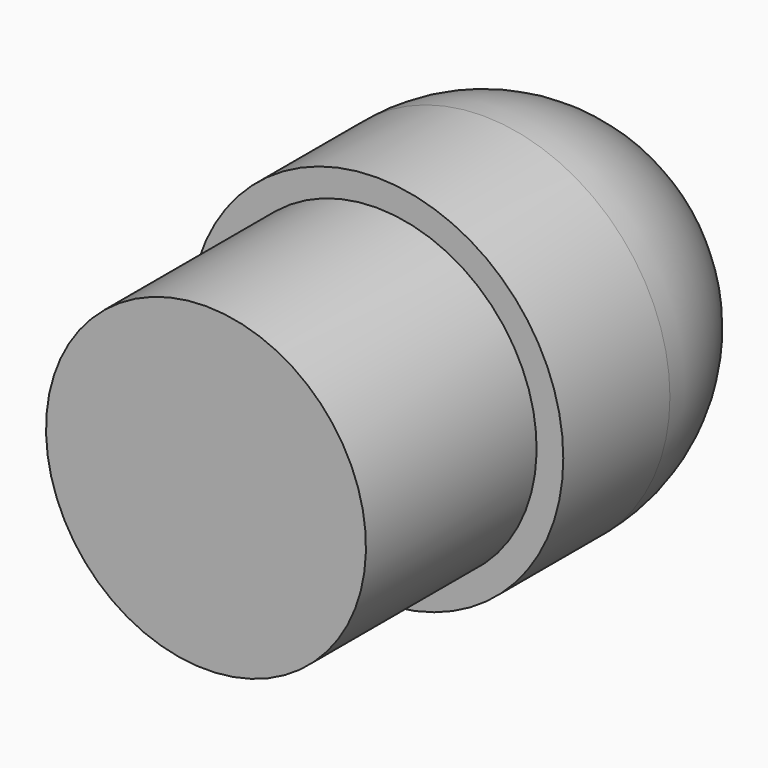
from build123d import *


with BuildPart() as f1:
    # F0 (on Right) → F1 (revolve)
    with BuildSketch(Plane.YZ):
        with BuildLine():
            Line((-25.2019731107, 0), (-10.2019731107, 0))
            ThreePointArc((-10.2019731107, 0), (-8.9038248567, 6.6143782777), (-5.2019731107, 12.2474487139))
            Line((-5.2019731107, 12.2474487139), (-5.2019731107, 15))
            Line((-5.2019731107, 15), (-25.2019731107, 15))
            Line((-25.2019731107, 15), (-25.2019731107, 0))
        make_face()
        with BuildLine():
            Line((-5.2019731107, 15), (-5.2019731107, 12.2474487139))
            ThreePointArc((-5.2019731107, 12.2474487139), (0.5186593854, 16.1335109709), (7.2980268893, 17.5))
            Line((7.2980268893, 17.5), (-5.2019731107, 17.5))
            Line((-5.2019731107, 17.5), (-5.2019731107, 15))
        make_face()
        with BuildLine():
            Line((-5.2019731107, 12.2474487139), (-5.2019731107, 0))
            Line((-5.2019731107, 0), (7.2980268893, 0))
            Line((7.2980268893, 0), (7.2980268893, 17.5))
            ThreePointArc((7.2980268893, 17.5), (0.5186593854, 16.1335109709), (-5.2019731107, 12.2474487139))
        make_face()
        with BuildLine():
            Line((7.2980268893, 17.5), (7.2980268893, 0))
            Line((7.2980268893, 0), (24.7980268893, 0))
            ThreePointArc((24.7980268893, 0), (19.67239556, 12.3743686708), (7.2980268893, 17.5))
        make_face()
        with BuildLine():
            Line((-10.2019731107, 0), (-5.2019731107, 0))
            Line((-5.2019731107, 0), (-5.2019731107, 12.2474487139))
            ThreePointArc((-5.2019731107, 12.2474487139), (-8.9038248567, 6.6143782777), (-10.2019731107, 0))
        make_face()
    revolve(axis=Axis((0, 1.0480268893, 0), (0, 1, 0)))


solid = f1.part
